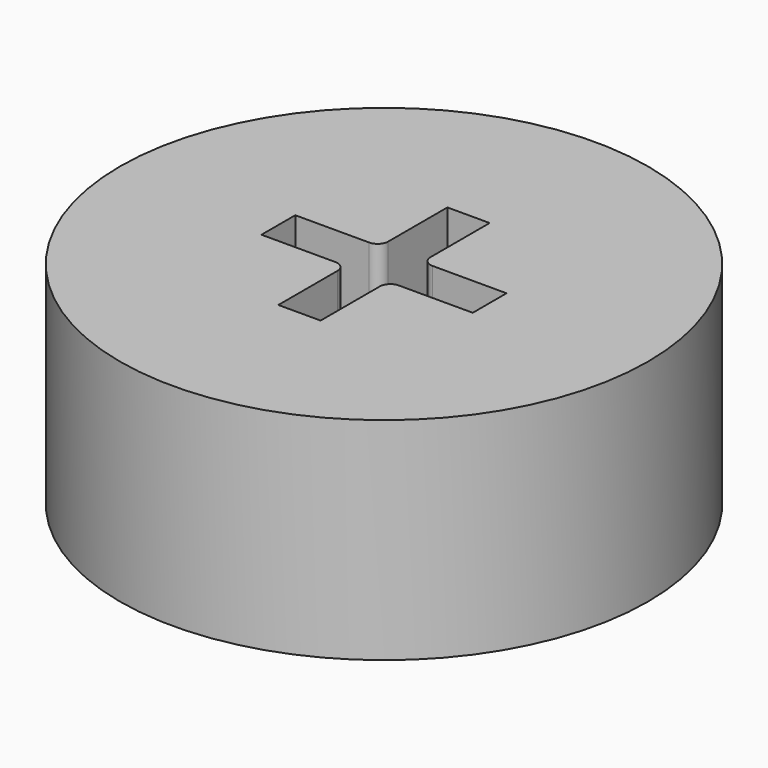
from build123d import *

# Parameters (mm, degrees)
F0_R     = 2.5
F1_DEPTH = 2
F3_DEPTH = 1


with BuildPart() as f1:
    # F0 (on Top) → F1 (new body)
    with BuildSketch(Plane.XY):
        Circle(F0_R)
    extrude(amount=F1_DEPTH)

    # F2 (on face) → F3 (cut)
    with BuildSketch(Plane.XY.offset(2)):
        with BuildLine():
            Line((-0.2, -0.3), (-0.2, -1))
            Line((-0.2, -1), (0.2, -1))
            Line((0.2, -1), (0.2, -0.3))
            ThreePointArc((0.2, -0.3), (0.229289, -0.229289), (0.3, -0.2))
            Line((0.3, -0.2), (1, -0.2))
            Line((1, -0.2), (1, 0.2))
            Line((1, 0.2), (0.3, 0.2))
            ThreePointArc((0.3, 0.2), (0.229289, 0.229289), (0.2, 0.3))
            Line((0.2, 0.3), (0.2, 1))
            Line((0.2, 1), (-0.2, 1))
            Line((-0.2, 1), (-0.2, 0.3))
            ThreePointArc((-0.2, 0.3), (-0.229289, 0.229289), (-0.3, 0.2))
            Line((-0.3, 0.2), (-1, 0.2))
            Line((-1, 0.2), (-1, -0.2))
            Line((-1, -0.2), (-0.3, -0.2))
            ThreePointArc((-0.3, -0.2), (-0.229289, -0.229289), (-0.2, -0.3))
        make_face()
    extrude(amount=-F3_DEPTH, mode=Mode.SUBTRACT)


solid = f1.part
